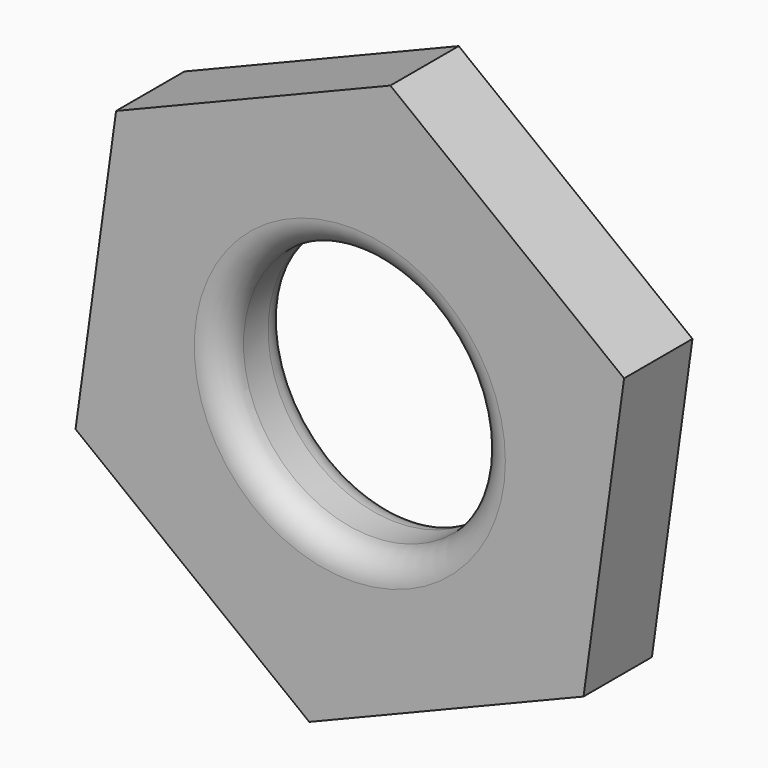
from build123d import *

# Parameters (mm, degrees)
F0_R     = 2.38125
F1_DEPTH = 0.79375
F2_R     = 0.508
F3_R     = 0.508


with BuildPart() as f1:
    # F0 (on Front) → F1 (new body, symmetric)
    with BuildSketch(Plane.XZ):
        Polygon((0.7529974873, 5.447464528), (-4.3411439238, 3.375847217), (-5.0941414111, -2.071617311), (-0.7529974873, -5.447464528), (4.3411439238, -3.375847217), (5.0941414111, 2.071617311), align=None)
        Circle(F0_R, mode=Mode.SUBTRACT)
    extrude(amount=F1_DEPTH, both=True)

    # F2
    f2_edges = [f1.edges().sort_by_distance(p)[0] for p in [
        (-2.38125, -0.79375, 0),
    ]]
    fillet(f2_edges, radius=F2_R)

    # F3
    f3_edges = [f1.edges().sort_by_distance(p)[0] for p in [
        (-2.38125, 0.79375, 0),
    ]]
    fillet(f3_edges, radius=F3_R)


solid = f1.part
